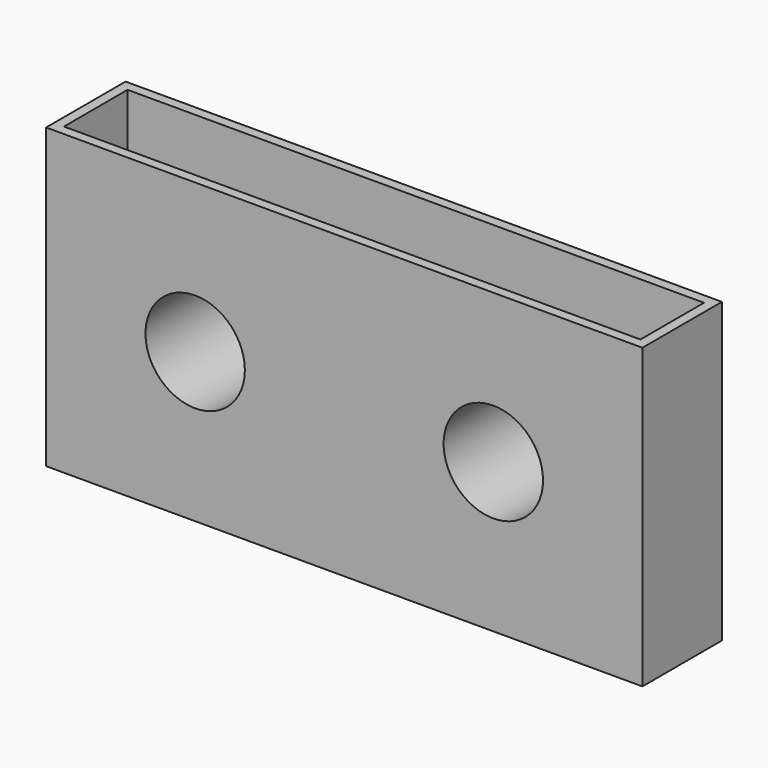
from build123d import *

# Parameters (mm, degrees)
F0_W     = 152.4
F0_H     = 76.2
F0_R     = 12.7
F1_DEPTH = 25.4
F2_T     = -2.54


with BuildPart() as f1:
    # F0 (on Front) → F1 (new body)
    with BuildSketch(Plane.XZ):
        Rectangle(F0_W, F0_H)
        with Locations((-38.1, 0)):
            Circle(F0_R, mode=Mode.SUBTRACT)
        with Locations((38.1, 0)):
            Circle(F0_R, mode=Mode.SUBTRACT)
    extrude(amount=F1_DEPTH)

    # F2
    f2_openings = [f1.faces().sort_by_distance(p)[0] for p in [
        (0, -12.7, 38.1),
        (0, -12.7, -38.1),
    ]]
    offset(amount=F2_T, openings=f2_openings)


solid = f1.part
